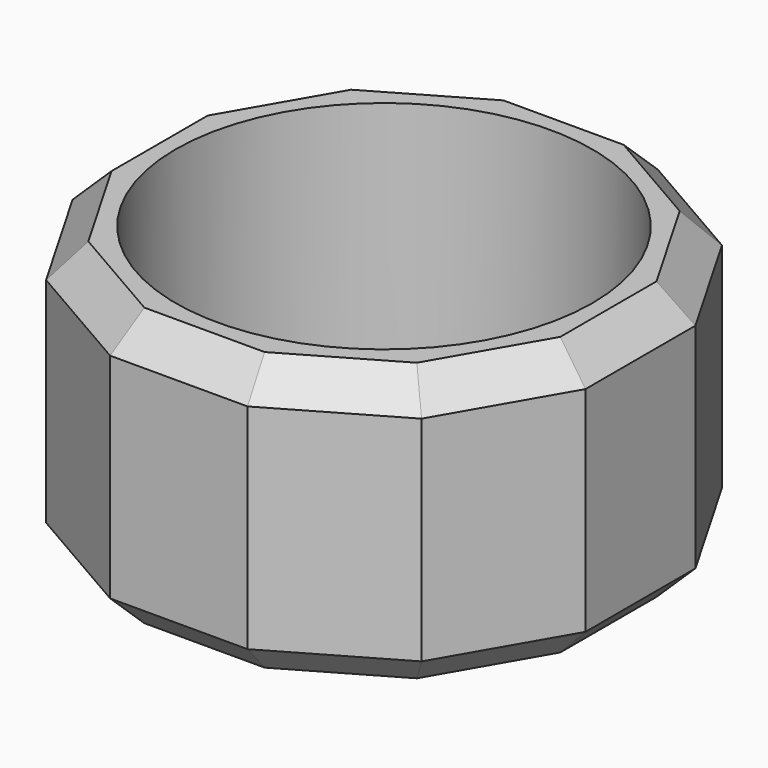
from build123d import *

# Parameters (mm, degrees)
F0_R     = 9.75
F1_DEPTH = 13
F2_SIZE  = 1.5


with BuildPart() as f1:
    # F0 (on Top) → F1 (new body)
    with BuildSketch(Plane.XY):
        Polygon((12, -3.21539), (12, 3.21539), (8.78461, 8.78461), (3.21539, 12), (-3.21539, 12), (-8.78461, 8.78461), (-12, 3.21539), (-12, -3.21539), (-8.78461, -8.78461), (-3.21539, -12), (3.21539, -12), (8.78461, -8.78461), align=None)
        Circle(F0_R, mode=Mode.SUBTRACT)
    extrude(amount=F1_DEPTH)

    # F2
    f2_edges = [f1.edges().sort_by_distance(p)[0] for p in [
        (6, -10.392305, 13),
        (10.392305, -6, 13),
        (12, 0, 13),
        (10.392305, 6, 13),
        (6, 10.392305, 13),
        (0, 12, 13),
        (-6, 10.392305, 13),
        (-10.392305, 6, 13),
        (-12, 0, 13),
        (-10.392305, -6, 13),
        (-6, -10.392305, 13),
        (0, -12, 13),
        (12, 0, 0),
        (10.392305, 6, 0),
        (6, 10.392305, 0),
        (0, 12, 0),
        (-6, 10.392305, 0),
        (-10.392305, 6, 0),
        (-12, 0, 0),
        (-10.392305, -6, 0),
        (-6, -10.392305, 0),
        (0, -12, 0),
        (6, -10.392305, 0),
        (10.392305, -6, 0),
    ]]
    chamfer(f2_edges, length=F2_SIZE)


solid = f1.part
